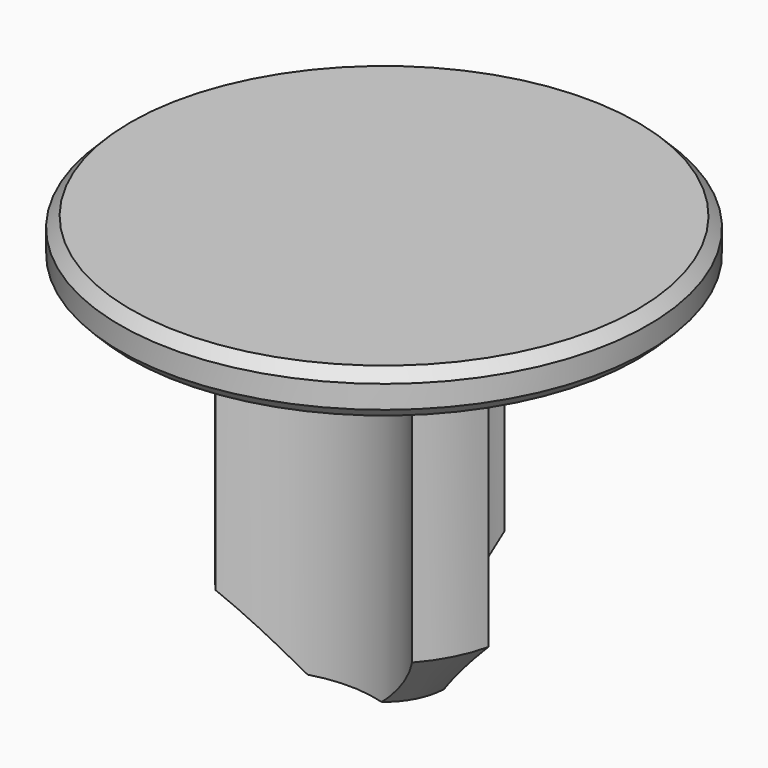
from build123d import *

# Parameters (mm, degrees)
F0_W     = 9.525
F0_H     = 25.4
F2_SIZE  = 0.762
F3_R     = 9.525
F4_DEPTH = 25.4
F5_SIZE  = 5.08


with BuildPart() as f1:
    # F0 (on Front) → F1 (revolve)
    with BuildSketch(Plane.XZ):
        with Locations((-4.7625, -12.7)):
            Rectangle(F0_W, F0_H)
        Polygon((-9.525, 0), (0, 0), (0, 3.175), (-19.05, 3.175), (-19.05, 0), align=None)
    revolve(axis=Axis((0, 0, -12.7), (0, 0, -1)))

    # F2
    f2_edges = [f1.edges().sort_by_distance(p)[0] for p in [
        (19.05, 0, 0),
        (19.05, 0, 3.175),
    ]]
    chamfer(f2_edges, length=F2_SIZE)

    # F3 (on face) → F4 (cut, through all)
    with BuildSketch(Plane(origin=(0, 0, -25.4), x_dir=(1, 0, 0), z_dir=(0, 0, -1))):
        with Locations((0, 12.7)):
            Circle(F3_R)
        with Locations((-10.9985226281, -6.35)):
            Circle(F3_R)
        with Locations((10.4095544736, -7.2753814788)):
            Circle(F3_R)
    extrude(amount=-F4_DEPTH, mode=Mode.SUBTRACT)

    # F5
    f5_edges = [f1.edges().sort_by_distance(p)[0] for p in [
        (-8.248892, -4.7625, -25.4),
        (-0.411342, 9.516114, -25.4),
        (8.446867, -4.401825, -25.4),
    ]]
    chamfer(f5_edges, length=F5_SIZE)


solid = f1.part
